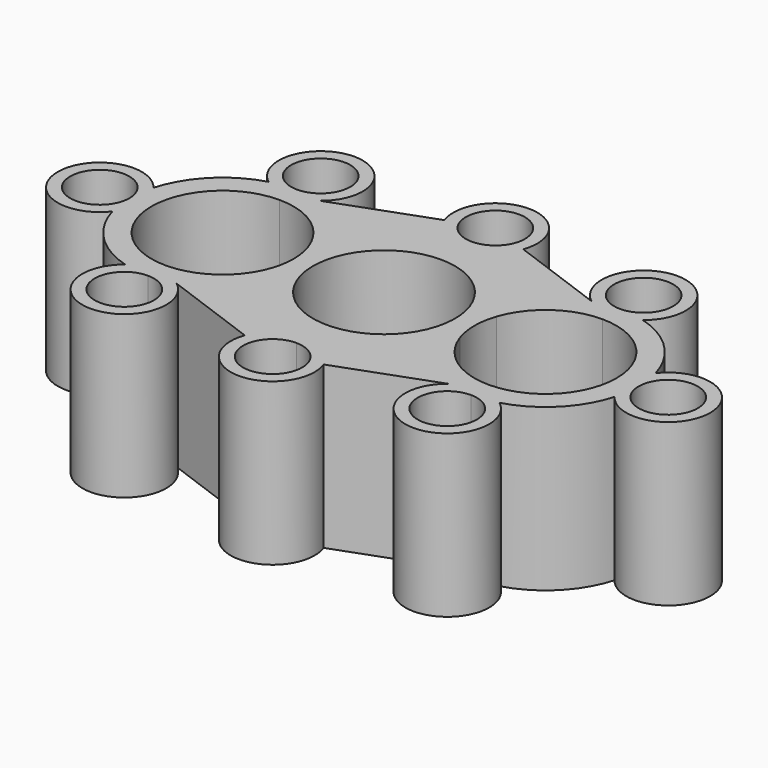
from build123d import *

# Parameters (mm, degrees)
F0_R     = 4.58
F1_DEPTH = 25


with BuildPart() as f1:
    # F0 (on Top) → F1 (new body)
    with BuildSketch(Plane.XY):
        with BuildLine():
            ThreePointArc((4.58, -21.55), (3.238549, -18.311451), (0, -16.97))
            ThreePointArc((0, -16.97), (-3.238549, -24.788549), (4.58, -21.55))
        make_face()
        with BuildLine():
            ThreePointArc((-20.42, -19.006), (-21.761451, -15.767451), (-25, -14.426))
            ThreePointArc((-25, -14.426), (-28.238549, -22.244549), (-20.42, -19.006))
        make_face()
        with BuildLine():
            ThreePointArc((-20.42, 19.006), (-28.238549, 22.244549), (-25, 14.426))
            ThreePointArc((-25, 14.426), (-21.761451, 15.767451), (-20.42, 19.006))
        make_face()
        with BuildLine():
            ThreePointArc((29.58, 19.006), (21.761451, 22.244549), (25, 14.426))
            ThreePointArc((25, 14.426), (28.238549, 15.767451), (29.58, 19.006))
        make_face()
        with BuildLine():
            ThreePointArc((29.58, -19.006), (28.238549, -15.767451), (25, -14.426))
            ThreePointArc((25, -14.426), (21.761451, -22.244549), (29.58, -19.006))
        make_face()
        with BuildLine():
            ThreePointArc((-28.979189, 13.866345), (-35.200711, 10.200734), (-38.866336, 3.97922))
            ThreePointArc((-38.866336, 3.97922), (-50.505968, 0), (-38.866336, -3.97922))
            ThreePointArc((-38.866336, -3.97922), (-35.200711, -10.200734), (-28.979189, -13.866345))
            ThreePointArc((-28.979189, -13.866345), (-25, -25.506), (-21.020811, -13.866345))
            Line((-21.020811, -13.866345), (-6.104944, -19.318484))
            ThreePointArc((-6.104944, -19.318484), (0, -28.05), (6.104944, -19.318484))
            Line((6.104944, -19.318484), (21.020811, -13.866345))
            ThreePointArc((21.020811, -13.866345), (25, -25.506), (28.979189, -13.866345))
            ThreePointArc((28.979189, -13.866345), (35.200722, -10.200722), (38.866345, -3.979189))
            ThreePointArc((38.866345, -3.979189), (50.506, 0), (38.866345, 3.979189))
            ThreePointArc((38.866345, 3.979189), (35.200722, 10.200722), (28.979189, 13.866345))
            ThreePointArc((28.979189, 13.866345), (25, 25.506), (21.020811, 13.866345))
            Line((21.020811, 13.866345), (6.104955, 19.318394))
            ThreePointArc((6.104955, 19.318394), (0, 28.049879), (-6.104955, 19.318394))
            Line((-6.104955, 19.318394), (-21.020811, 13.866345))
            ThreePointArc((-21.020811, 13.866345), (-25, 25.506), (-28.979189, 13.866345))
        make_face()
        with BuildLine():
            ThreePointArc((4.58, -21.55), (-3.238549, -24.788549), (0, -16.97))
            ThreePointArc((0, -16.97), (3.238549, -18.311451), (4.58, -21.55))
        make_face(mode=Mode.SUBTRACT)
        with BuildLine():
            ThreePointArc((-20.42, -19.006), (-28.238549, -22.244549), (-25, -14.426))
            ThreePointArc((-25, -14.426), (-21.761451, -15.767451), (-20.42, -19.006))
        make_face(mode=Mode.SUBTRACT)
        with BuildLine():
            ThreePointArc((29.58, -19.006), (21.761451, -22.244549), (25, -14.426))
            ThreePointArc((25, -14.426), (28.238549, -15.767451), (29.58, -19.006))
        make_face(mode=Mode.SUBTRACT)
        with Locations((-44.005968, 0)):
            Circle(F0_R, mode=Mode.SUBTRACT)
        with BuildLine():
            ThreePointArc((-25, 11), (-18.587974, 8.937892), (-14.58, 3.524713))
            ThreePointArc((-14.58, 3.524713), (-14, 0), (-14.58, -3.524713))
            ThreePointArc((-14.58, -3.524713), (-18.587974, -8.937892), (-25, -11))
            ThreePointArc((-25, -11), (-36, 0), (-25, 11))
        make_face(mode=Mode.SUBTRACT)
        with BuildLine():
            ThreePointArc((0, -11), (-11, 0), (0, 11))
            ThreePointArc((0, 11), (11, 0), (0, -11))
        make_face(mode=Mode.SUBTRACT)
        with BuildLine():
            ThreePointArc((-20.42, 19.006), (-21.761451, 15.767451), (-25, 14.426))
            ThreePointArc((-25, 14.426), (-28.238549, 22.244549), (-20.42, 19.006))
        make_face(mode=Mode.SUBTRACT)
        with Locations((0, 21.549879)):
            Circle(F0_R, mode=Mode.SUBTRACT)
        with BuildLine():
            ThreePointArc((14.58, -3.524713), (14, 0), (14.58, 3.524713))
            ThreePointArc((14.58, 3.524713), (18.587974, 8.937892), (25, 11))
            ThreePointArc((25, 11), (36, 0), (25, -11))
            ThreePointArc((25, -11), (18.587974, -8.937892), (14.58, -3.524713))
        make_face(mode=Mode.SUBTRACT)
        with Locations((44.006, 0)):
            Circle(F0_R, mode=Mode.SUBTRACT)
        with BuildLine():
            ThreePointArc((29.58, 19.006), (28.238549, 15.767451), (25, 14.426))
            ThreePointArc((25, 14.426), (21.761451, 22.244549), (29.58, 19.006))
        make_face(mode=Mode.SUBTRACT)
    extrude(amount=F1_DEPTH)


solid = f1.part
